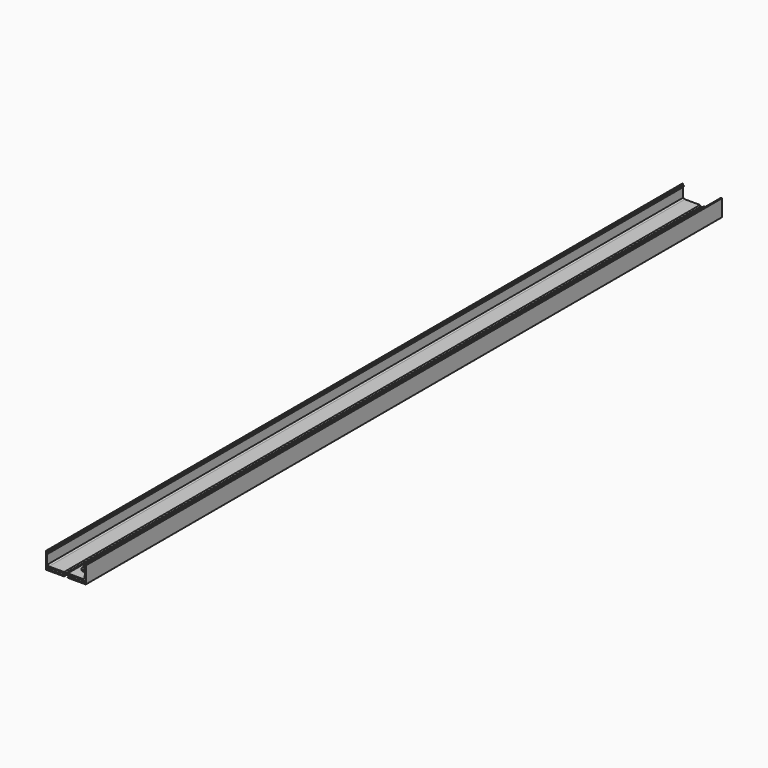
from build123d import *

# Parameters (mm, degrees)
F1_DEPTH = 750
F2_R     = 0.5
F3_R     = 11.5
F4_DEPTH = 25.4


with BuildPart() as f1:
    # F0 (on Front) → F1 (new body, symmetric)
    with BuildSketch(Plane.XZ):
        Polygon((-0.121622, 0), (0, 0), (0, 32), (-2, 32), (-2, 30), (-3.631513, 30), (-3.744032, 28.255974), (-2, 26.399431), (-2.397815, 9.028868), (-5.717093, 7.453618), (-34.352882, 7.453618), (-36.09691, 5.372039), (-39.544148, 5.372039), (-41.288176, 7.453618), (-69.923965, 7.453618), (-73.243243, 9.028868), (-73.243243, 26.525391), (-71.499211, 28.381934), (-71.61173, 30), (-73.243243, 30), (-73.243243, 32), (-75.243243, 32), (-75.243243, 0), (-41.003749, 0), (-41.003749, 1.284304), (-43.03767, 1.311418), (-43.149501, 5.337393), (-42.076625, 5.367195), (-41.063354, 4.085704), (-37.743243, 4.085704), (-34.301511, 4.085704), (-33.28824, 5.367195), (-32.215363, 5.337393), (-32.327195, 1.311418), (-34.361116, 1.284304), (-34.361116, 0), align=None)
        Polygon((-44.694386, 5.337393), (-44.694386, 1.910149), (-73.364027, 1.910149), (-73.393829, 2.506191), (-71.754345, 2.588166), (-71.789201, 3.285283), (-73.542841, 3.638672), (-73.202291, 5.328597), (-71.605705, 5.665216), (-70.68184, 4.502933), (-69.936782, 5.337393), align=None, mode=Mode.SUBTRACT)
        Polygon((-3.637539, 5.665216), (-2.040952, 5.328597), (-1.700402, 3.638672), (-3.454042, 3.285283), (-3.488898, 2.588166), (-1.849414, 2.506191), (-1.879216, 1.910149), (-30.548857, 1.910149), (-30.548857, 5.337393), (-5.306461, 5.337393), (-4.561403, 4.502933), align=None, mode=Mode.SUBTRACT)
    extrude(amount=F1_DEPTH, both=True)

    # F2
    f2_edges = [f1.edges().sort_by_distance(p)[0] for p in [
        (-75.243243, 0, 32),
        (0, 0, 32),
        (0, 0, 0),
        (-75.243243, 0, 0),
        (-41.003749, 0, 0),
        (-34.361116, 0, 0),
    ]]
    fillet(f2_edges, radius=F2_R)

    # F3 (on face) → F4 (cut)
    with BuildSketch(Plane.XY.offset(7.453618)):
        with Locations((-18, -720)):
            Circle(F3_R)
        with Locations((-18, -680)):
            Circle(F3_R)
        with Locations((-18, 720)):
            Circle(F3_R)
    extrude(amount=-F4_DEPTH, mode=Mode.SUBTRACT)


solid = f1.part
